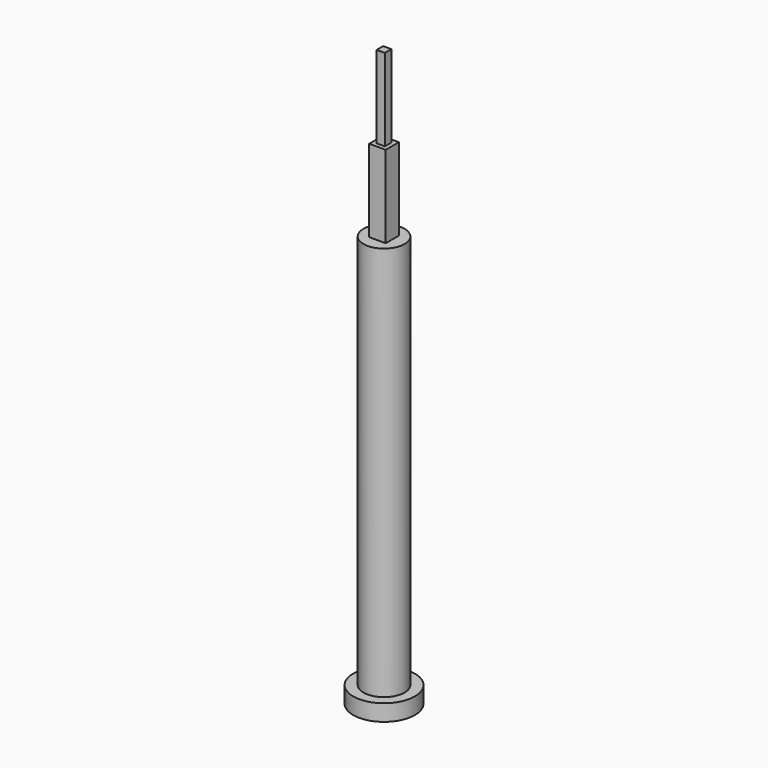
from build123d import *

# Parameters (mm, degrees)
F0_R     = 7.5
F1_DEPTH = 4
F2_R     = 5
F3_DEPTH = 100
F4_W     = 4
F4_H     = 4
F5_DEPTH = 20
F6_W     = 2
F6_H     = 2
F7_DEPTH = 20


with BuildPart() as f1:
    # F0 (on Top) → F1 (new body)
    with BuildSketch(Plane.XY):
        Circle(F0_R)
    extrude(amount=F1_DEPTH)

    # F2 (on Top) → F3 (join)
    with BuildSketch(Plane.XY):
        Circle(F2_R)
    extrude(amount=F3_DEPTH)

    # F4 (on face) → F5 (join)
    with BuildSketch(Plane.XY.offset(100)):
        Rectangle(F4_W, F4_H)
    extrude(amount=F5_DEPTH)

    # F6 (on face) → F7 (join)
    with BuildSketch(Plane.XY.offset(120)):
        Rectangle(F6_W, F6_H)
    extrude(amount=F7_DEPTH)


solid = f1.part
